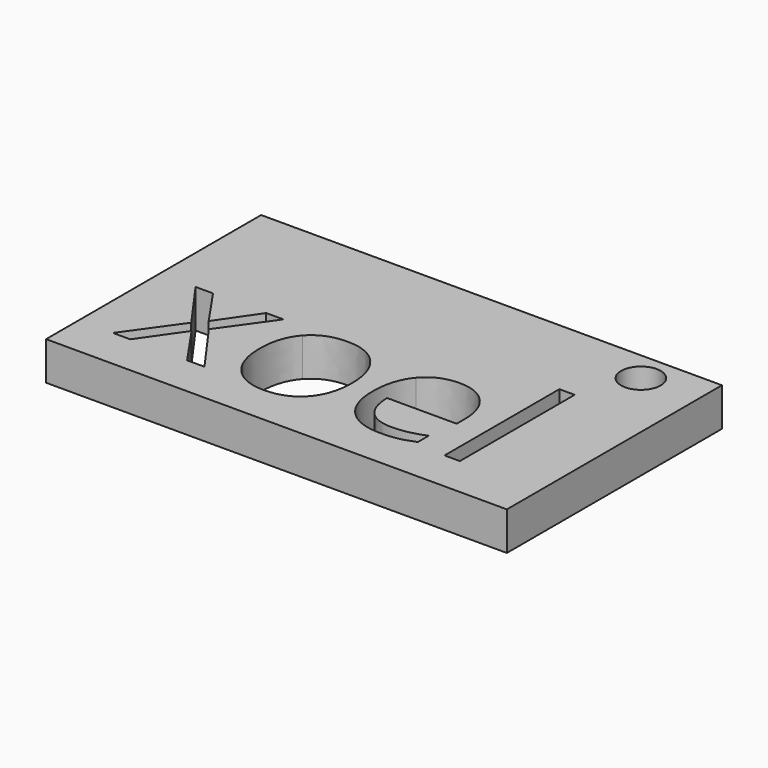
from build123d import *

# Parameters (mm, degrees)
F0_W     = 60
F0_H     = 35
F0_W_2   = 1.9945063705
F0_H_2   = 18.6884094019
F0_R     = 2.5757746771
F1_DEPTH = 5


with BuildPart() as f1:
    # F0 (on Top) → F1 (new body)
    with BuildSketch(Plane.XY):
        with Locations((-30, 17.5)):
            Rectangle(F0_W, F0_H)
        Polygon((-55.554255027, 5.3125368431), (-50.7390016895, 12.0492799403), (-55.3159902969, 18.4747416964), (-53.044789401, 18.4747416964), (-49.5745788952, 13.4327525672), (-46.1158973279, 18.4747416964), (-43.8677543092, 18.4747416964), (-48.4447429165, 12.0492799403), (-43.629489579, 5.3125368431), (-45.8853185567, 5.3125368431), (-49.5745788952, 10.6465924158), (-53.2984260493, 5.3125368431), align=None, mode=Mode.SUBTRACT)
        with BuildLine():
            add(Edge.make_bspline(
                [(-31.2916038326, 16.8779837062), (-29.6641020062, 15.0391180062), (-29.6641020062, 11.9070896981)],
                knots=[0, 0, 0, 1, 1, 1], degree=2))
            add(Edge.make_bspline(
                [(-29.6641020062, 11.9070896981), (-29.6641020062, 8.686672861), (-31.2839178735, 6.8785509972)],
                knots=[0, 0, 0, 1, 1, 1], degree=2))
            add(Edge.make_bspline(
                [(-31.2839178735, 6.8785509972), (-32.9037337409, 5.0704291334), (-35.7629105032, 5.0704291334)],
                knots=[0, 0, 0, 1, 1, 1], degree=2))
            add(Edge.make_bspline(
                [(-35.7629105032, 5.0704291334), (-37.530681082, 5.0704291334), (-38.8987817908, 5.9005127096)],
                knots=[0, 0, 0, 1, 1, 1], degree=2))
            add(Edge.make_bspline(
                [(-38.8987817908, 5.9005127096), (-40.2668824997, 6.7305962857), (-41.0124205264, 8.2793170319)],
                knots=[0, 0, 0, 1, 1, 1], degree=2))
            add(Edge.make_bspline(
                [(-41.0124205264, 8.2793170319), (-41.7579585531, 9.8280377782), (-41.7579585531, 11.9070896981)],
                knots=[0, 0, 0, 1, 1, 1], degree=2))
            add(Edge.make_bspline(
                [(-41.7579585531, 11.9070896981), (-41.7579585531, 15.1236635556), (-40.1477501346, 16.9202564809)],
                knots=[0, 0, 0, 1, 1, 1], degree=2))
            add(Edge.make_bspline(
                [(-40.1477501346, 16.9202564809), (-38.537541716, 18.7168494061), (-35.6783649537, 18.7168494061)],
                knots=[0, 0, 0, 1, 1, 1], degree=2))
            add(Edge.make_bspline(
                [(-35.6783649537, 18.7168494061), (-32.9191056589, 18.7168494061), (-31.2916038326, 16.8779837062)],
                knots=[0, 0, 0, 1, 1, 1], degree=2))
        make_face(mode=Mode.SUBTRACT)
        with BuildLine():
            add(Edge.make_bspline(
                [(-18.3311554041, 5.2702640684), (-19.2726853863, 5.0704291334), (-20.6061992794, 5.0704291334)],
                knots=[0, 0, 0, 1, 1, 1], degree=2))
            add(Edge.make_bspline(
                [(-20.6061992794, 5.0704291334), (-23.5230207345, 5.0704291334), (-25.2120102332, 6.8497286508)],
                knots=[0, 0, 0, 1, 1, 1], degree=2))
            add(Edge.make_bspline(
                [(-25.2120102332, 6.8497286508), (-26.9009997319, 8.6290281682), (-26.9009997319, 11.7841143535)],
                knots=[0, 0, 0, 1, 1, 1], degree=2))
            add(Edge.make_bspline(
                [(-26.9009997319, 11.7841143535), (-26.9009997319, 14.9699443749), (-25.333064088, 16.8433968905)],
                knots=[0, 0, 0, 1, 1, 1], degree=2))
            add(Edge.make_bspline(
                [(-25.333064088, 16.8433968905), (-23.7651284442, 18.7168494061), (-21.121158535, 18.7168494061)],
                knots=[0, 0, 0, 1, 1, 1], degree=2))
            add(Edge.make_bspline(
                [(-21.121158535, 18.7168494061), (-18.6501227042, 18.7168494061), (-17.2090053845, 17.0893475797)],
                knots=[0, 0, 0, 1, 1, 1], degree=2))
            add(Edge.make_bspline(
                [(-17.2090053845, 17.0893475797), (-15.7678880648, 15.4618457533), (-15.7678880648, 12.794817967)],
                knots=[0, 0, 0, 1, 1, 1], degree=2))
            Line((-15.7678880648, 12.794817967), (-15.7678880648, 11.5343206847))
            Line((-15.7678880648, 11.5343206847), (-24.8334767505, 11.5343206847))
            add(Edge.make_bspline(
                [(-24.8334767505, 11.5343206847), (-24.7719890782, 9.2170040346), (-23.6613679972, 8.0160729349)],
                knots=[0, 0, 0, 1, 1, 1], degree=2))
            add(Edge.make_bspline(
                [(-23.6613679972, 8.0160729349), (-22.5507469161, 6.8151418351), (-20.5331826686, 6.8151418351)],
                knots=[0, 0, 0, 1, 1, 1], degree=2))
            add(Edge.make_bspline(
                [(-20.5331826686, 6.8151418351), (-18.4080149944, 6.8151418351), (-16.3328060541, 7.7028701041)],
                knots=[0, 0, 0, 1, 1, 1], degree=2))
            Line((-16.3328060541, 7.7028701041), (-16.3328060541, 5.9235705867))
            add(Edge.make_bspline(
                [(-16.3328060541, 5.9235705867), (-17.3896254219, 5.4700990034), (-18.3311554041, 5.2702640684)],
                knots=[0, 0, 0, 1, 1, 1], degree=2))
        make_face(mode=Mode.SUBTRACT)
        with Locations((-11.369598005, 14.6567415441)):
            Rectangle(F0_W_2, F0_H_2, mode=Mode.SUBTRACT)
        with Locations((-7.4053523131, 31.0702826828)):
            Circle(F0_R, mode=Mode.SUBTRACT)
    extrude(amount=F1_DEPTH)


solid = f1.part
